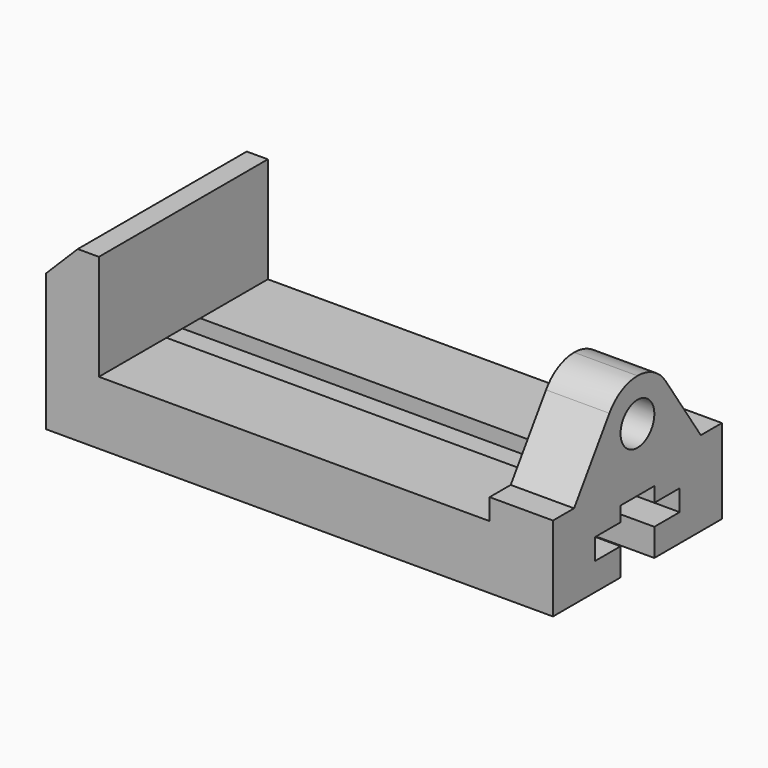
from build123d import *

# Parameters (mm, degrees)
F1_DEPTH = 127
F3_DEPTH = 127
F5_DEPTH = 304.801
F7_DEPTH = 38.1
F8_R     = 12.7
F9_DEPTH = 38.1


with BuildPart() as f1:
    # F0 (on Front) → F1 (new body)
    with BuildSketch(Plane.XZ):
        Polygon((-27.676516, -34.944516), (-27.676516, 28.555484), (-59.426516, 28.555484), (-59.426516, -73.044516), (245.373484, -73.044516), (245.373484, 28.555484), (207.273484, 28.555484), (207.273484, -34.944516), align=None)
    extrude(amount=-F1_DEPTH)

    # F2 (on face) → F3 (cut)
    with BuildSketch(Plane.XZ):
        Polygon((-40.376516, 28.555484), (-59.426516, 28.555484), (-59.426516, 9.505484), align=None)
    extrude(amount=-F3_DEPTH, mode=Mode.SUBTRACT)

    # F4 (on face) → F5 (cut, through all)
    with BuildSketch(Plane.YZ.offset(245.373484)):
        Polygon((50.8, -73.044516), (63.5, -73.044516), (76.2, -73.044516), (76.2, -56.534516), (95.25, -56.534516), (95.25, -43.834516), (76.2, -43.834516), (76.2, -34.944516), (50.8, -34.944516), (50.8, -43.834516), (31.75, -43.834516), (31.75, -56.534516), (50.8, -56.534516), align=None)
    extrude(amount=-F5_DEPTH, mode=Mode.SUBTRACT)

    # F6 (on face) → F7 (cut)
    with BuildSketch(Plane.YZ.offset(245.373484)):
        with BuildLine():
            Line((0, 28.555484), (0, -22.244516))
            Line((0, -22.244516), (15.875, -22.244516))
            Line((15.875, -22.244516), (42.406574, 17.305657))
            ThreePointArc((42.406574, 17.305657), (51.547059, 25.567249), (63.5, 28.555484))
            Line((63.5, 28.555484), (0, 28.555484))
        make_face()
        with BuildLine():
            Line((127, 28.555484), (63.5, 28.555484))
            ThreePointArc((63.5, 28.555484), (75.452941, 25.567249), (84.593426, 17.305657))
            Line((84.593426, 17.305657), (111.125, -22.244516))
            Line((111.125, -22.244516), (127, -22.244516))
            Line((127, -22.244516), (127, 28.555484))
        make_face()
    extrude(amount=-F7_DEPTH, mode=Mode.SUBTRACT)

    # F8 (on face) → F9 (cut)
    with BuildSketch(Plane.YZ.offset(245.373484)):
        with Locations((63.5, 3.155484)):
            Circle(F8_R)
    extrude(amount=-F9_DEPTH, mode=Mode.SUBTRACT)


solid = f1.part
